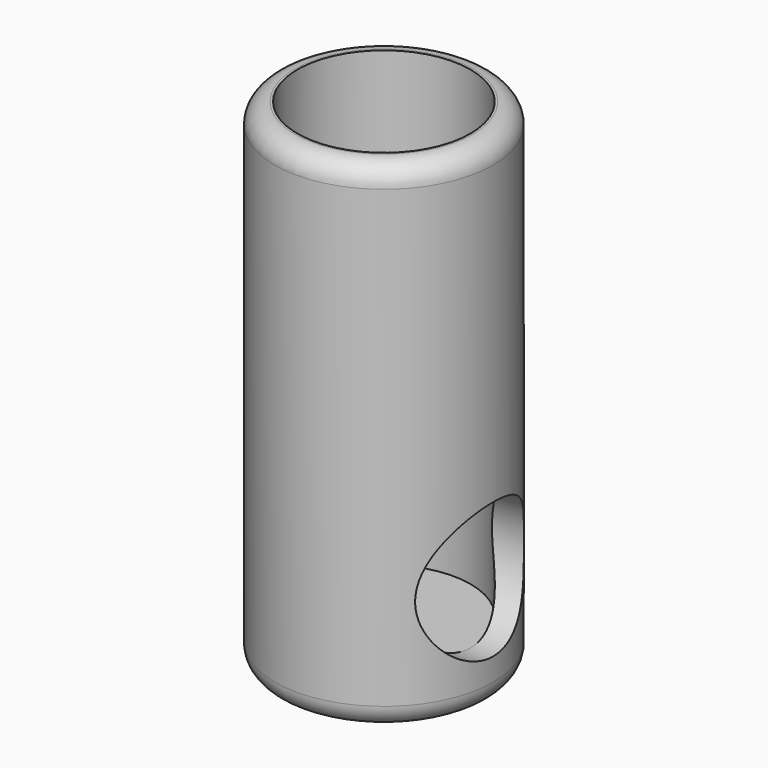
from build123d import *

# Parameters (mm, degrees)
SKETCH002_R  = 3
PAD002_DEPTH = 10
SKETCH_R     = 4.825
SKETCH_R_2   = 3.825
PAD_DEPTH    = 20
SKETCH001_R  = 4.825
PAD001_DEPTH = 2
FILLET_R     = 1
FILLET001_R  = 0.9


with BuildPart() as body001:
    # Sketch002 → Pad002 (new body)
    with BuildSketch(Plane.YZ):
        with Locations((0, 3)):
            Circle(SKETCH002_R)
    extrude(amount=PAD002_DEPTH)


with BuildPart() as body:
    # Sketch → Pad (new body)
    with BuildSketch(Plane.XY):
        Circle(SKETCH_R)
        Circle(SKETCH_R_2, mode=Mode.SUBTRACT)
    extrude(amount=PAD_DEPTH)

    # Sketch001 (on Face3 of Pad) → Pad001 (join)
    with BuildSketch(Plane(origin=(0, 0, 0), x_dir=(1, 0, 0), z_dir=(0, 0, -1))):
        Circle(SKETCH001_R)
    extrude(amount=PAD001_DEPTH)

    # Boolean: cut Body001
    add(body001.part, mode=Mode.SUBTRACT)

    # Fillet
    fillet_edges = [body.edges().sort_by_distance(p)[0] for p in [
        (-4.825, 0, -2),
    ]]
    fillet(fillet_edges, radius=FILLET_R)

    # Fillet001
    fillet001_edges = [body.edges().sort_by_distance(p)[0] for p in [
        (-4.825, 0, 20),
    ]]
    fillet(fillet001_edges, radius=FILLET001_R)


solid = body.part
